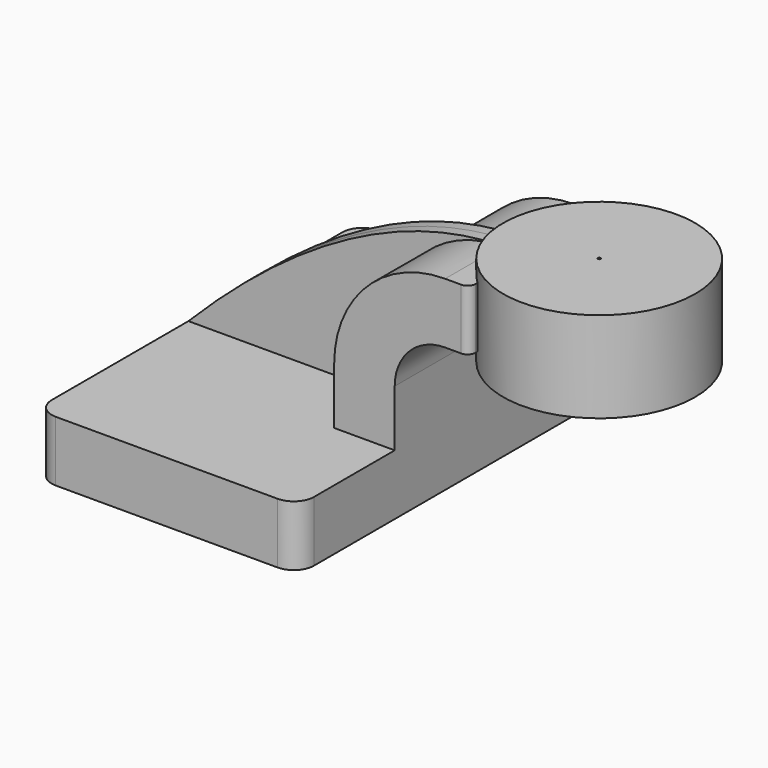
from build123d import *

# Parameters (mm, degrees)
F1_DEPTH = 63.5
F2_DEPTH = 25.4
F3_DEPTH = 3.3655
F6_R     = 6.35
F7_R     = 2.54
F8_R     = 2.54


with BuildPart() as f1:
    # F0 (on Front) → F1 (new body, symmetric)
    with BuildSketch(Plane.XZ):
        Polygon((-41.275, -9.525), (41.275, -9.525), (41.275, 9.525), (22.225, 9.525), (-41.275, 9.525), align=None)
    extrude(amount=F1_DEPTH, both=True)

    # F0 (on Front) → F2 (join, symmetric)
    with BuildSketch(Plane.XZ):
        with BuildLine():
            Line((22.225, 9.525), (41.275, 9.525))
            Line((41.275, 9.525), (41.275, 27.305))
            ThreePointArc((41.275, 27.305), (45.9246798487, 38.5303201513), (57.15, 43.18))
            Line((57.15, 43.18), (64.7230581194, 43.18))
            Line((64.7230581194, 43.18), (64.7230581194, 62.23))
            Line((64.7230581194, 62.23), (57.15, 62.23))
            ThreePointArc((57.15, 62.23), (32.4542956671, 52.0007043329), (22.225, 27.305))
            Line((22.225, 27.305), (22.225, 9.525))
        make_face()
    extrude(amount=F2_DEPTH, both=True)

    # F0 (on Front) → F3 (join, symmetric)
    with BuildSketch(Plane.XZ):
        with BuildLine():
            add(Edge.make_bspline(
                [(-41.275, 9.525), (-13.7296449393, 37.2954718769), (24.3855025619, 65.1646107435), (64.7230581194, 62.23)],
                knots=[0, 0, 0, 0, 118.3782300514, 118.3782300514, 118.3782300514, 118.3782300514], degree=3))
            Line((-41.275, 9.525), (22.225, 9.525))
            Line((22.225, 9.525), (22.225, 27.305))
            ThreePointArc((22.225, 27.305), (32.4542956671, 52.0007043329), (57.15, 62.23))
            Line((57.15, 62.23), (64.7230581194, 62.23))
        make_face()
    extrude(amount=F3_DEPTH, both=True)

    # F0 (on Front) → F5 (revolve)
    with BuildSketch(Plane.XZ):
        Polygon((85.725, 66.675), (85.725, 62.23), (85.725, 43.18), (85.725, 38.1), (115.5230581194, 38.1), (115.5230581194, 66.675), align=None)
    revolve(axis=Axis((85.3036269546, 0, 52.5564104319), (0, 0, -1)))

    # F6
    f6_edges = [f1.edges().sort_by_distance(p)[0] for p in [
        (-41.275, -63.5, 0),
        (41.275, -63.5, 0),
        (41.275, 63.5, 0),
        (-41.275, 63.5, 0),
    ]]
    fillet(f6_edges, radius=F6_R)

    # F7
    f7_edges = [f1.edges().sort_by_distance(p)[0] for p in [
        (64.723058, -25.4, 52.705),
    ]]
    fillet(f7_edges, radius=F7_R)

    # F8
    f8_edges = [f1.edges().sort_by_distance(p)[0] for p in [
        (64.723058, 25.4, 52.705),
    ]]
    fillet(f8_edges, radius=F8_R)


solid = f1.part
